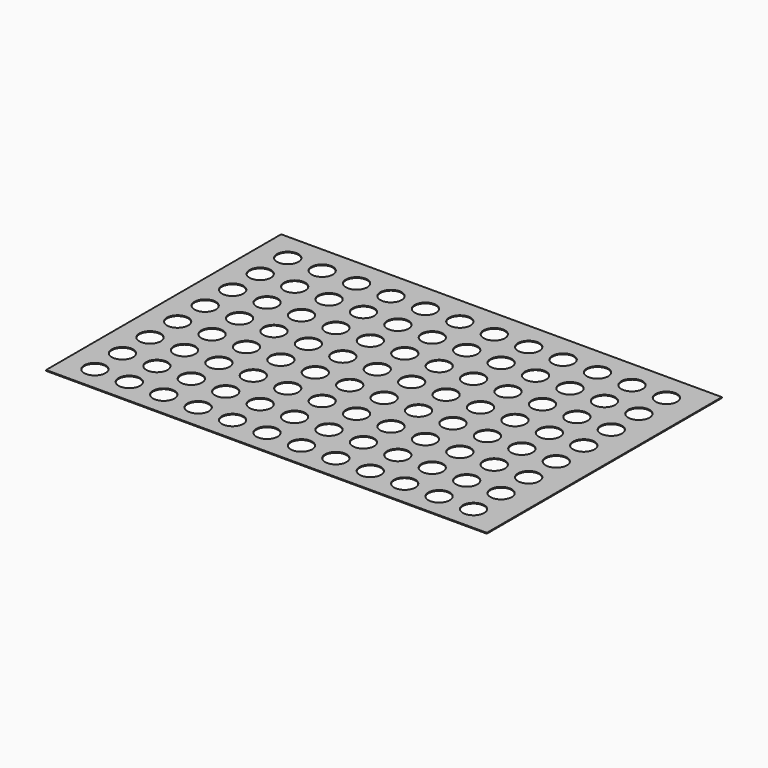
from build123d import *

# Parameters (mm, degrees)
F0_W     = 133.35
F0_H     = 88.9
F6_DEPTH = 0.254
F1_R     = 3.2258
F2_R     = 3.2258
F3_R     = 3.2258
F4_R     = 3.2258
F5_R     = 3.2258
F7_DEPTH = 0.254


with BuildPart() as f6:
    # F0 (on Top) → F6 (new body)
    with BuildSketch(Plane.XY):
        Rectangle(F0_W, F0_H)
    extrude(amount=F6_DEPTH)

    # F1 (on face) + F2 (on Top) + F3 (on Top) + F4 (on Top) + F5 (on face) → F7 (cut)
    with BuildSketch(Plane.XY):
        with Locations((-57.894781, 35.969737)):
            Circle(F1_R)
        with Locations((-47.480781, 35.969737)):
            Circle(F1_R)
        with Locations((-37.066781, 35.969737)):
            Circle(F1_R)
        with Locations((-26.652781, 35.969737)):
            Circle(F1_R)
        with Locations((-16.238781, 35.969737)):
            Circle(F1_R)
        with Locations((-5.824781, 35.969737)):
            Circle(F1_R)
        with Locations((4.589219, 35.969737)):
            Circle(F1_R)
        with Locations((15.003219, 35.969737)):
            Circle(F1_R)
        with Locations((25.417219, 35.969737)):
            Circle(F1_R)
        with Locations((35.831219, 35.969737)):
            Circle(F1_R)
        with Locations((46.245219, 35.969737)):
            Circle(F1_R)
        with Locations((56.659219, 35.969737)):
            Circle(F1_R)
    with BuildSketch(Plane.XY):
        with Locations((-57.89461, 25.554124)):
            Circle(F2_R)
        with Locations((-47.48061, 25.554124)):
            Circle(F2_R)
        with Locations((-37.06661, 25.554124)):
            Circle(F2_R)
        with Locations((-26.65261, 25.554124)):
            Circle(F2_R)
        with Locations((-16.23861, 25.554124)):
            Circle(F2_R)
        with Locations((-5.82461, 25.554124)):
            Circle(F2_R)
        with Locations((4.58939, 25.554124)):
            Circle(F2_R)
        with Locations((15.00339, 25.554124)):
            Circle(F2_R)
        with Locations((25.41739, 25.554124)):
            Circle(F2_R)
        with Locations((35.83139, 25.554124)):
            Circle(F2_R)
        with Locations((46.24539, 25.554124)):
            Circle(F2_R)
        with Locations((56.65939, 25.554124)):
            Circle(F2_R)
    with BuildSketch(Plane.XY):
        with Locations((-57.894051, 15.139973)):
            Circle(F3_R)
        with Locations((-47.480051, 15.139973)):
            Circle(F3_R)
        with Locations((-37.066051, 15.139973)):
            Circle(F3_R)
        with Locations((-26.652051, 15.139973)):
            Circle(F3_R)
        with Locations((-16.238051, 15.139973)):
            Circle(F3_R)
        with Locations((-5.824051, 15.139973)):
            Circle(F3_R)
        with Locations((4.589949, 15.139973)):
            Circle(F3_R)
        with Locations((15.003949, 15.139973)):
            Circle(F3_R)
        with Locations((25.417949, 15.139973)):
            Circle(F3_R)
        with Locations((35.831949, 15.139973)):
            Circle(F3_R)
        with Locations((46.245949, 15.139973)):
            Circle(F3_R)
        with Locations((56.659949, 15.139973)):
            Circle(F3_R)
    with BuildSketch(Plane.XY):
        with Locations((-57.896856, 4.737091)):
            Circle(F4_R)
        with Locations((-47.482856, 4.737091)):
            Circle(F4_R)
        with Locations((-37.068856, 4.737091)):
            Circle(F4_R)
        with Locations((-26.654856, 4.737091)):
            Circle(F4_R)
        with Locations((-16.240856, 4.737091)):
            Circle(F4_R)
        with Locations((-5.826856, 4.737091)):
            Circle(F4_R)
        with Locations((4.587144, 4.737091)):
            Circle(F4_R)
        with Locations((15.001144, 4.737091)):
            Circle(F4_R)
        with Locations((25.415144, 4.737091)):
            Circle(F4_R)
        with Locations((35.829144, 4.737091)):
            Circle(F4_R)
        with Locations((46.243144, 4.737091)):
            Circle(F4_R)
        with Locations((56.657144, 4.737091)):
            Circle(F4_R)
    with BuildSketch(Plane.XY):
        with Locations((-57.89711, -5.676357)):
            Circle(F5_R)
        with Locations((-57.908446, -16.090351)):
            Circle(F5_R)
        with Locations((-57.919783, -26.504345)):
            Circle(F5_R)
        with Locations((-57.93112, -36.918339)):
            Circle(F5_R)
        with Locations((-47.48311, -5.676357)):
            Circle(F5_R)
        with Locations((-47.494446, -16.090351)):
            Circle(F5_R)
        with Locations((-47.505783, -26.504345)):
            Circle(F5_R)
        with Locations((-47.51712, -36.918339)):
            Circle(F5_R)
        with Locations((-37.06911, -5.676357)):
            Circle(F5_R)
        with Locations((-37.080446, -16.090351)):
            Circle(F5_R)
        with Locations((-37.091783, -26.504345)):
            Circle(F5_R)
        with Locations((-37.10312, -36.918339)):
            Circle(F5_R)
        with Locations((-26.65511, -5.676357)):
            Circle(F5_R)
        with Locations((-26.666446, -16.090351)):
            Circle(F5_R)
        with Locations((-26.677783, -26.504345)):
            Circle(F5_R)
        with Locations((-26.68912, -36.918339)):
            Circle(F5_R)
        with Locations((-16.24111, -5.676357)):
            Circle(F5_R)
        with Locations((-16.252446, -16.090351)):
            Circle(F5_R)
        with Locations((-16.263783, -26.504345)):
            Circle(F5_R)
        with Locations((-16.27512, -36.918339)):
            Circle(F5_R)
        with Locations((-5.82711, -5.676357)):
            Circle(F5_R)
        with Locations((-5.838446, -16.090351)):
            Circle(F5_R)
        with Locations((-5.849783, -26.504345)):
            Circle(F5_R)
        with Locations((-5.86112, -36.918339)):
            Circle(F5_R)
        with Locations((4.58689, -5.676357)):
            Circle(F5_R)
        with Locations((4.575554, -16.090351)):
            Circle(F5_R)
        with Locations((4.564217, -26.504345)):
            Circle(F5_R)
        with Locations((4.55288, -36.918339)):
            Circle(F5_R)
        with Locations((15.00089, -5.676357)):
            Circle(F5_R)
        with Locations((14.989554, -16.090351)):
            Circle(F5_R)
        with Locations((14.978217, -26.504345)):
            Circle(F5_R)
        with Locations((14.96688, -36.918339)):
            Circle(F5_R)
        with Locations((25.41489, -5.676357)):
            Circle(F5_R)
        with Locations((25.403554, -16.090351)):
            Circle(F5_R)
        with Locations((25.392217, -26.504345)):
            Circle(F5_R)
        with Locations((25.38088, -36.918339)):
            Circle(F5_R)
        with Locations((35.82889, -5.676357)):
            Circle(F5_R)
        with Locations((35.817554, -16.090351)):
            Circle(F5_R)
        with Locations((35.806217, -26.504345)):
            Circle(F5_R)
        with Locations((35.79488, -36.918339)):
            Circle(F5_R)
        with Locations((46.24289, -5.676357)):
            Circle(F5_R)
        with Locations((46.231554, -16.090351)):
            Circle(F5_R)
        with Locations((46.220217, -26.504345)):
            Circle(F5_R)
        with Locations((46.20888, -36.918339)):
            Circle(F5_R)
        with Locations((56.65689, -5.676357)):
            Circle(F5_R)
        with Locations((56.645554, -16.090351)):
            Circle(F5_R)
        with Locations((56.634217, -26.504345)):
            Circle(F5_R)
        with Locations((56.62288, -36.918339)):
            Circle(F5_R)
    extrude(amount=F7_DEPTH, mode=Mode.SUBTRACT)


solid = f6.part
